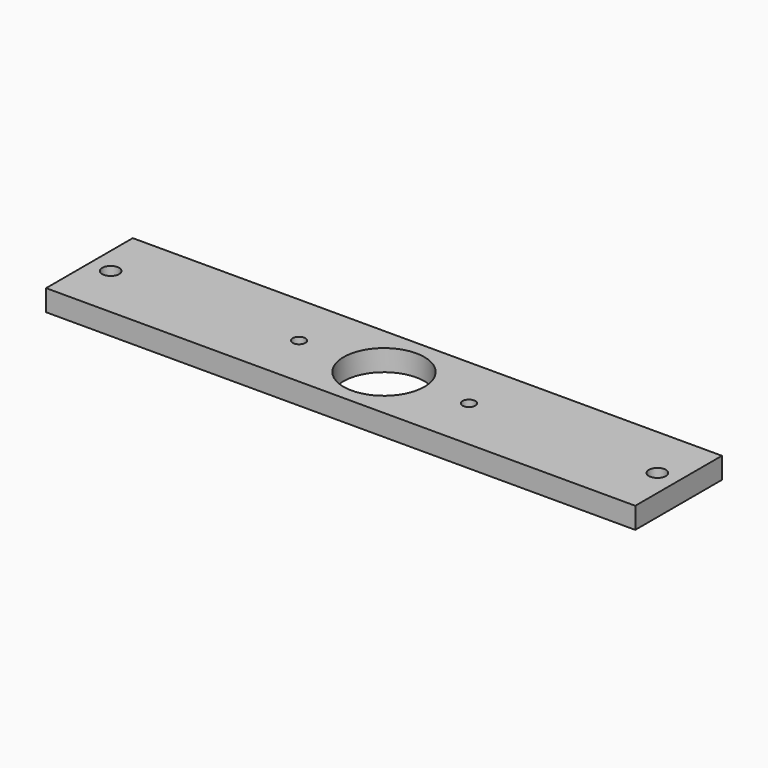
from build123d import *

# Parameters (mm, degrees)
F0_W     = 138.7
F0_H     = 25.5
F1_DEPTH = 5
F2_R     = 9.5
F3_DEPTH = 25
F5_R     = 2
F5_R_2   = 1.5
F6_DEPTH = 25


with BuildPart() as f1:
    # F0 (on Top) → F1 (new body)
    with BuildSketch(Plane.XY):
        Rectangle(F0_W, F0_H)
    extrude(amount=F1_DEPTH)

    # F2 (on face) → F3 (cut)
    with BuildSketch(Plane.XY.offset(5)):
        Circle(F2_R)
    extrude(amount=-F3_DEPTH, mode=Mode.SUBTRACT)

    # F5 (on face) → F6 (cut)
    with BuildSketch(Plane.XY.offset(5)):
        with Locations((-64.35, 0)):
            Circle(F5_R)
        with Locations((64.35, 0)):
            Circle(F5_R)
        with Locations((20, 0)):
            Circle(F5_R_2)
        with Locations((-20, 0)):
            Circle(F5_R_2)
    extrude(amount=-F6_DEPTH, mode=Mode.SUBTRACT)


solid = f1.part
